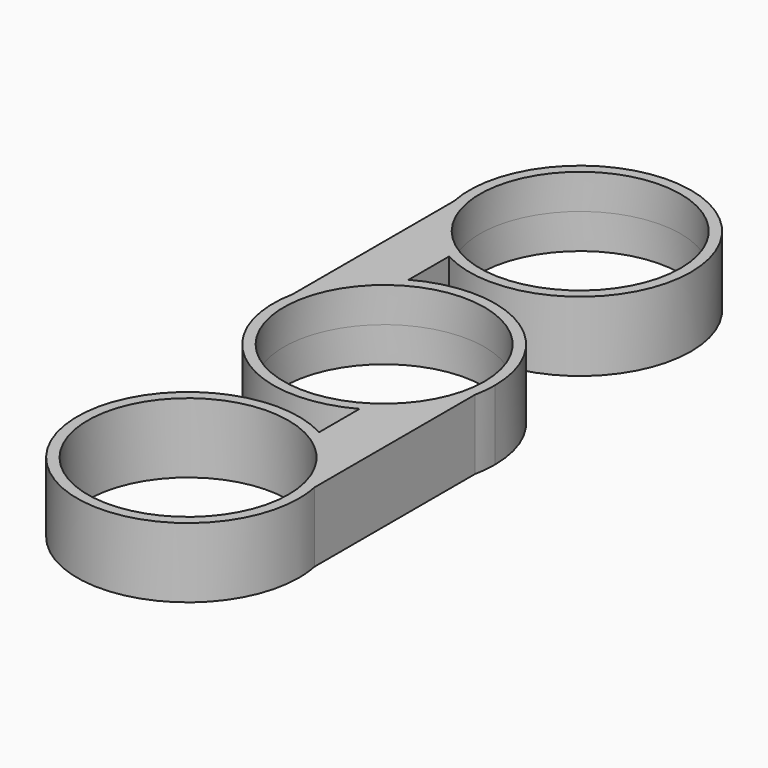
from build123d import *

# Parameters (mm, degrees)
F2_DEPTH = 4
F0_R     = 11.5
F3_DEPTH = 4


with BuildPart() as f2:
    # F1 (on Top) → F2 (new body, symmetric)
    with BuildSketch(Plane.XY):
        with BuildLine():
            Line((-12.4521264806, 25.5733730193), (-12.4521264806, 28.0924))
            Line((-12.4521264806, 28.0924), (-6.1021264806, 28.0924))
            Line((-6.1021264806, 28.0924), (-6.1021264806, 16.9323248421))
            ThreePointArc((-6.1021264806, 16.9323248421), (6.472750331, 17.143546912), (12.7, 28.0702803284))
            ThreePointArc((12.7, 28.0702803284), (-1.2545903108, 40.7081600221), (-12.4521264806, 25.5733730193))
        make_face()
        with BuildLine():
            Line((-6.1021264806, 28.0924), (-12.4521264806, 28.0924))
            Line((-12.4521264806, 28.0924), (-12.4521264806, 25.5733730193))
            ThreePointArc((-12.4521264806, 25.5733730193), (-10.2338655521, 20.5497753013), (-6.1021264806, 16.9323248421))
            Line((-6.1021264806, 16.9323248421), (-6.1021264806, 28.0924))
        make_face()
        with BuildLine():
            ThreePointArc((-6.1021264806, 16.9323248421), (-10.2338655521, 20.5497753013), (-12.4521264806, 25.5733730193))
            Line((-12.4521264806, 25.5733730193), (-12.4521264806, 2.4969073091))
            ThreePointArc((-12.4521264806, 2.4969073091), (-10.2338655521, 7.5205050271), (-6.1021264806, 11.1379554863))
            Line((-6.1021264806, 11.1379554863), (-6.1021264806, 16.9323248421))
        make_face()
        with BuildLine():
            ThreePointArc((-6.1021264806, 11.1379554863), (-10.2338655521, 7.5205050271), (-12.4521264806, 2.4969073091))
            Line((-12.4521264806, 2.4969073091), (-12.4521264806, 0))
            Line((-12.4521264806, 0), (-6.1021264806, 0))
            Line((-6.1021264806, 0), (-6.1021264806, 11.1379554863))
        make_face()
        with BuildLine():
            Line((-12.4521264806, 0), (-12.4521264806, 2.4969073091))
            ThreePointArc((-12.4521264806, 2.4969073091), (-7.5233189099, -10.2317971335), (6.096, -11.1413097973))
            Line((6.096, -11.1413097973), (6.096, 0))
            Line((6.096, 0), (12.446, 0))
            Line((12.446, 0), (12.446, -2.5272680903))
            ThreePointArc((12.446, -2.5272680903), (12.6363404513, -1.27), (12.7, 0))
            ThreePointArc((12.7, 0), (6.472750331, 10.9267334164), (-6.1021264806, 11.1379554863))
            Line((-6.1021264806, 11.1379554863), (-6.1021264806, 0))
            Line((-6.1021264806, 0), (-12.4521264806, 0))
        make_face()
        with BuildLine():
            ThreePointArc((12.446, -2.5272680903), (10.2226155965, -7.535789963), (6.096, -11.1413097973))
            Line((6.096, -11.1413097973), (6.096, -16.9388947044))
            ThreePointArc((6.096, -16.9388947044), (10.2226155965, -20.5444145387), (12.446, -25.5529364115))
            Line((12.446, -25.5529364115), (12.446, -2.5272680903))
        make_face()
        with BuildLine():
            Line((6.096, 0), (6.096, -11.1413097973))
            ThreePointArc((6.096, -11.1413097973), (10.2226155965, -7.535789963), (12.446, -2.5272680903))
            Line((12.446, -2.5272680903), (12.446, 0))
            Line((12.446, 0), (6.096, 0))
        make_face()
        with BuildLine():
            ThreePointArc((12.446, -25.5529364115), (10.2226155965, -20.5444145387), (6.096, -16.9388947044))
            Line((6.096, -16.9388947044), (6.096, -28.0924))
            Line((6.096, -28.0924), (12.446, -28.0924))
            Line((12.446, -28.0924), (12.446, -25.5529364115))
        make_face()
        with BuildLine():
            Line((6.096, -28.0924), (6.096, -16.9388947044))
            ThreePointArc((6.096, -16.9388947044), (-10.9249530891, -34.555959284), (12.7, -28.0802045017))
            ThreePointArc((12.7, -28.0802045017), (12.6363404513, -26.8102045017), (12.446, -25.5529364115))
            Line((12.446, -25.5529364115), (12.446, -28.0924))
            Line((12.446, -28.0924), (6.096, -28.0924))
        make_face()
    extrude(amount=F2_DEPTH, both=True)

    # F0 (on Top) → F3 (cut, symmetric)
    with BuildSketch(Plane.XY):
        Circle(F0_R)
        with Locations((0, 28.08)):
            Circle(F0_R)
        with Locations((0, -28.08)):
            Circle(F0_R)
    extrude(amount=F3_DEPTH, both=True, mode=Mode.SUBTRACT)


solid = f2.part
